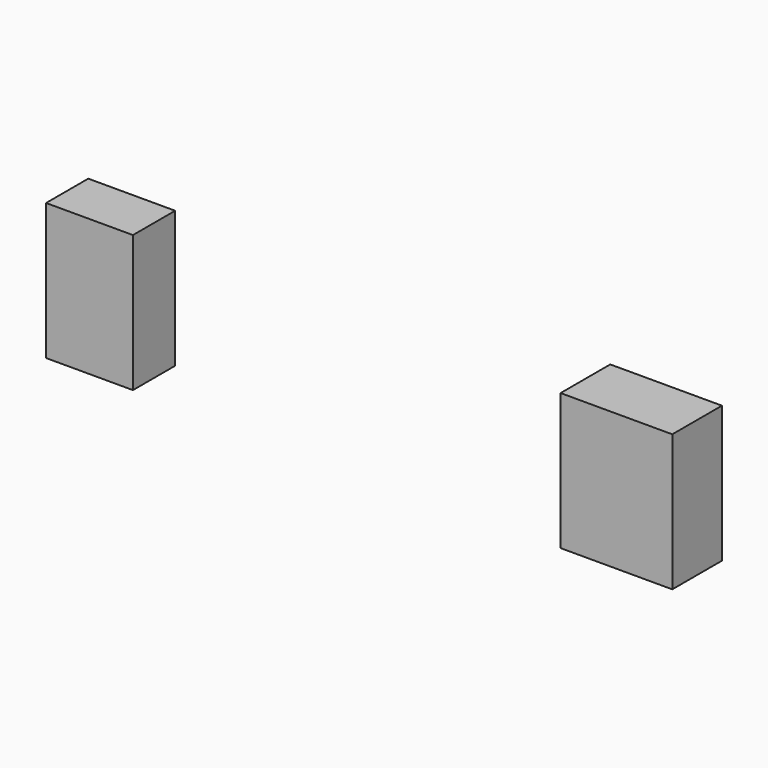
from build123d import *

# Parameters (mm, degrees)
F0_W     = 177.8
F0_H     = 107.95
F0_W_2   = 228.6
F0_H_2   = 127
F1_DEPTH = 279.4


with BuildPart() as f1:
    # F0 (on Top) → F1 (new body)
    with BuildSketch(Plane.XY):
        with Locations((88.9, 572.37698)):
            Rectangle(F0_W, F0_H)
        with Locations((1167.383062, 581.90198)):
            Rectangle(F0_W_2, F0_H_2)
    extrude(amount=F1_DEPTH)


solid = f1.part
